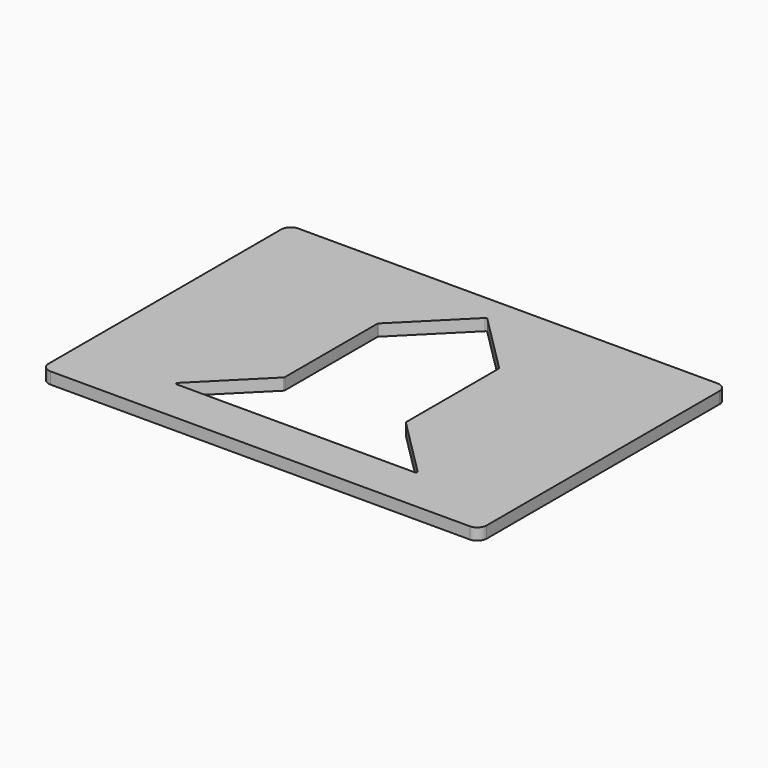
from build123d import *

# Parameters (mm, degrees)
F0_W     = 238.125
F0_H     = 168.275
F1_DEPTH = 6.35
F2_R     = 5.08
F4_DEPTH = 25.4
F5_DEPTH = 6.351
F7_DEPTH = 6.351


with BuildPart() as f1:
    # F0 (on Top) → F1 (new body)
    with BuildSketch(Plane.XY):
        Rectangle(F0_W, F0_H)
    extrude(amount=F1_DEPTH)

    # F2
    f2_edges = [f1.edges().sort_by_distance(p)[0] for p in [
        (-119.0625, 84.1375, 3.175),
        (119.0625, 84.1375, 3.175),
        (-119.0625, -84.1375, 3.175),
        (119.0625, -84.1375, 3.175),
    ]]
    fillet(f2_edges, radius=F2_R)

    # F3 (on face) → F4 (cut)
    with BuildSketch(Plane.XY.offset(6.35)):
        Polygon((-63.5, -58.7375), (0, -58.7375), (63.5, -58.7375), (31.75, -26.9875), (31.75, 36.5125), (0, 68.2625), (-31.75, 36.5125), (-31.75, -26.9875), align=None)
    extrude(amount=-F4_DEPTH, mode=Mode.SUBTRACT)

    # F3 (on face) → F5 (cut, through all)
    with BuildSketch(Plane.XY.offset(6.35)):
        Polygon((-63.5, -58.7375), (0, -58.7375), (63.5, -58.7375), (31.75, -26.9875), (31.75, 36.5125), (0, 68.2625), (-31.75, 36.5125), (-31.75, -26.9875), align=None)
    extrude(amount=-F5_DEPTH, mode=Mode.SUBTRACT)

    # F6 (on face) → F7 (cut, through all)
    with BuildSketch(Plane.XY.offset(6.35)):
        with BuildLine():
            Line((-33.02, 36.712399), (-33.02, -26.135297))
            ThreePointArc((-33.02, -26.135297), (-33.079937, -26.436622), (-33.250624, -26.692073))
            Line((-33.250624, -26.692073), (-65.221875, -58.663324))
            ThreePointArc((-65.221875, -58.663324), (-65.392562, -59.521425), (-64.665099, -60.0075))
            Line((-64.665099, -60.0075), (64.665099, -60.0075))
            ThreePointArc((64.665099, -60.0075), (65.392562, -59.521425), (65.221875, -58.663324))
            Line((65.221875, -58.663324), (33.250624, -26.692073))
            ThreePointArc((33.250624, -26.692073), (33.079937, -26.436622), (33.02, -26.135297))
            Line((33.02, -26.135297), (33.02, 36.712399))
            ThreePointArc((33.02, 36.712399), (32.960063, 37.013724), (32.789376, 37.269175))
            Line((32.789376, 37.269175), (0.556776, 69.501775))
            ThreePointArc((0.556776, 69.501775), (0, 69.732399), (-0.556776, 69.501775))
            Line((-0.556776, 69.501775), (-32.789376, 37.269175))
            ThreePointArc((-32.789376, 37.269175), (-32.960063, 37.013724), (-33.02, 36.712399))
        make_face()
    extrude(amount=-F7_DEPTH, mode=Mode.SUBTRACT)


solid = f1.part
